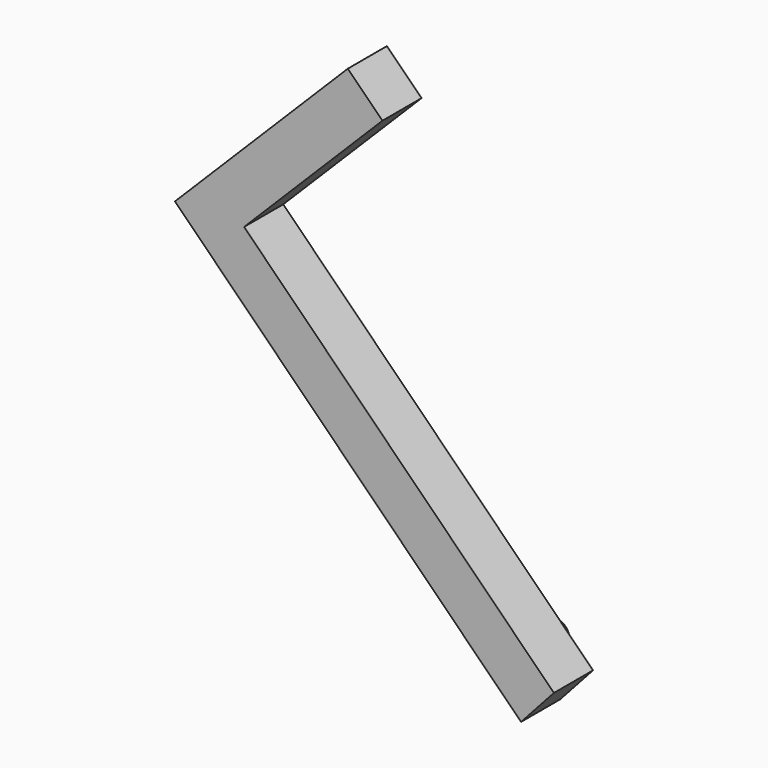
from build123d import *

# Parameters (mm, degrees)
F1_DEPTH = 10
F2_R     = 3.084409
F2_R_2   = 3.349591
F3_DEPTH = 2


with BuildPart() as f1:
    # F0 (on Front) → F1 (new body)
    with BuildSketch(Plane.XZ):
        Polygon((-25.699907, 57.854638), (-61.035037, 22.479102), (9.716036, -48.191159), (16.436929, -40.786458), (-46.900976, 22.479102), (-18.624799, 50.787612), align=None)
    extrude(amount=F1_DEPTH)

    # F2 (on face) → F3 (join)
    with BuildSketch(Plane(origin=(0, 0, 0), x_dir=(-1, 0, 0), z_dir=(0, 1, 0))):
        with Locations((-7.014304, -38.225602)):
            Circle(F2_R)
        with Locations((32.67004, 43.702345)):
            Circle(F2_R_2)
    extrude(amount=F3_DEPTH)


solid = f1.part
